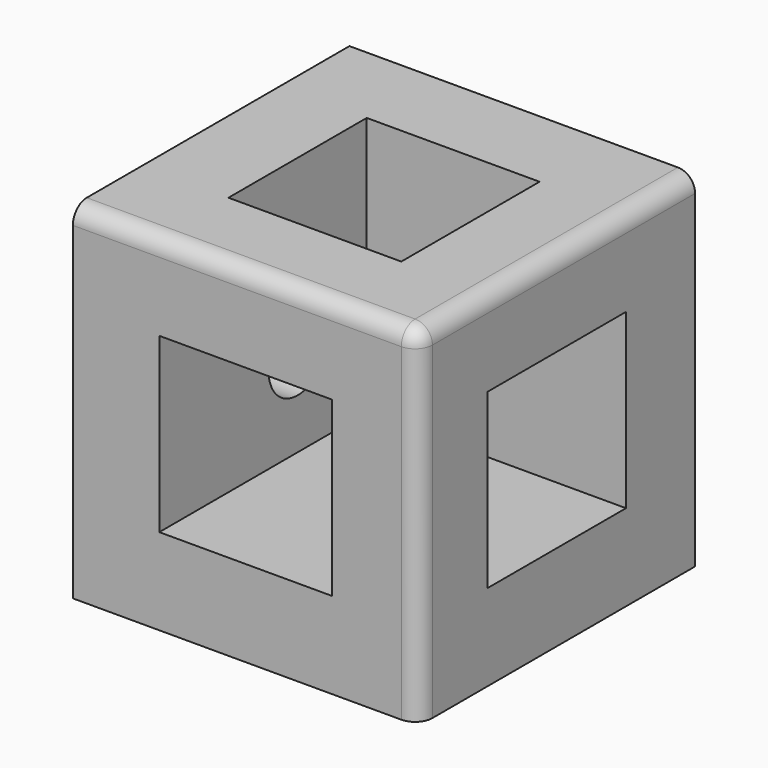
from build123d import *

# Parameters (mm, degrees)
F0_W      = 20
F0_H      = 20
F1_DEPTH  = 20
F2_W      = 5
F2_H      = 5
F3_DEPTH  = 15
F4_R      = 2.1
F5_DEPTH  = 25
F6_W      = 5
F6_H      = 5
F7_DEPTH  = 15
F8_R      = 2.1
F9_DEPTH  = 25
F10_W     = 5
F10_H     = 5
F11_DEPTH = 15
F12_R     = 2.1
F13_DEPTH = 25
F14_R     = 1


with BuildPart() as f1:
    # F0 (on Front) → F1 (new body)
    with BuildSketch(Plane.XZ):
        with Locations((10, 10)):
            Rectangle(F0_W, F0_H)
    extrude(amount=F1_DEPTH)

    # F2 (on face) → F3 (cut)
    with BuildSketch(Plane.XZ.offset(20)):
        with Locations((7.5, 12.5)):
            Rectangle(F2_W, F2_H)
        with Locations((12.5, 12.5)):
            Rectangle(F2_W, F2_H)
        with Locations((12.5, 7.5)):
            Rectangle(F2_W, F2_H)
        with Locations((7.5, 7.5)):
            Rectangle(F2_W, F2_H)
    extrude(amount=-F3_DEPTH, mode=Mode.SUBTRACT)

    # F4 (on face) → F5 (cut)
    with BuildSketch(Plane.XZ.offset(5)):
        with Locations((10, 10)):
            Circle(F4_R)
    extrude(amount=-F5_DEPTH, mode=Mode.SUBTRACT)

    # F6 (on face) → F7 (cut)
    with BuildSketch(Plane.XY.offset(20)):
        with Locations((7.5, -7.5)):
            Rectangle(F6_W, F6_H)
        with Locations((12.5, -7.5)):
            Rectangle(F6_W, F6_H)
        with Locations((12.5, -12.5)):
            Rectangle(F6_W, F6_H)
        with Locations((7.5, -12.5)):
            Rectangle(F6_W, F6_H)
    extrude(amount=-F7_DEPTH, mode=Mode.SUBTRACT)

    # F8 (on face) → F9 (cut)
    with BuildSketch(Plane.XY.offset(5)):
        with Locations((10, -10)):
            Circle(F8_R)
    extrude(amount=-F9_DEPTH, mode=Mode.SUBTRACT)

    # F10 (on face) → F11 (cut)
    with BuildSketch(Plane.YZ.offset(20)):
        with Locations((-12.5, 12.5)):
            Rectangle(F10_W, F10_H)
        with Locations((-7.5, 12.5)):
            Rectangle(F10_W, F10_H)
        with Locations((-7.5, 7.5)):
            Rectangle(F10_W, F10_H)
        with Locations((-12.5, 7.5)):
            Rectangle(F10_W, F10_H)
    extrude(amount=-F11_DEPTH, mode=Mode.SUBTRACT)

    # F12 (on face) → F13 (cut)
    with BuildSketch(Plane.YZ.offset(5)):
        with Locations((-10, 10)):
            Circle(F12_R)
    extrude(amount=-F13_DEPTH, mode=Mode.SUBTRACT)

    # F14
    f14_edges = [f1.edges().sort_by_distance(p)[0] for p in [
        (20, -10, 20),
        (10, -20, 20),
        (20, -20, 10),
    ]]
    fillet(f14_edges, radius=F14_R)


solid = f1.part
